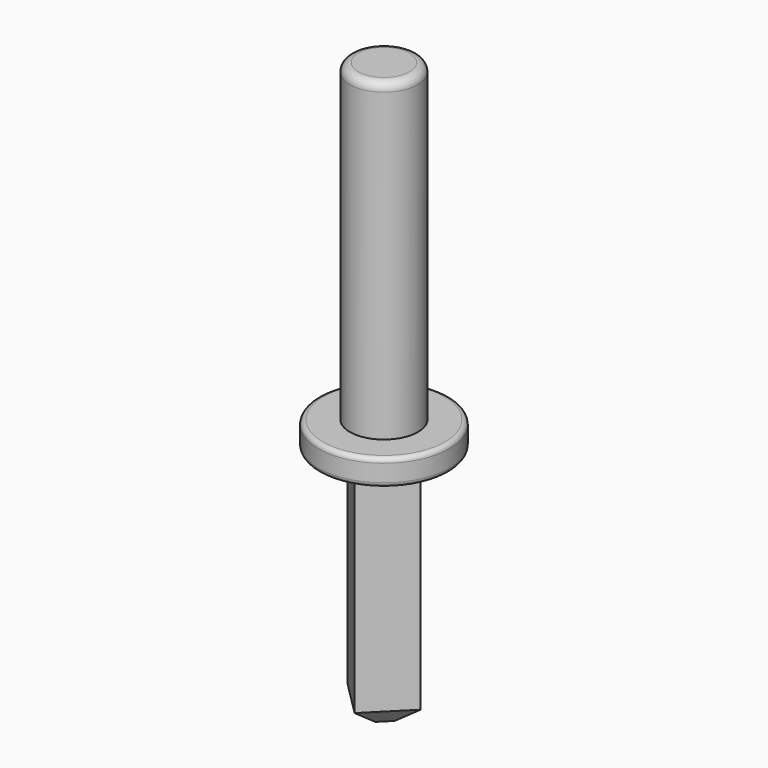
from build123d import *

# Parameters (mm, degrees)
PAD_DEPTH    = 4.5
CHAMFER_SIZE = 0.35


with BuildPart() as part:
    # Sketch → Revolution (revolve)
    with BuildSketch(Plane(origin=(0, 0, 0), x_dir=(-1, 0, 0), z_dir=(0, 1, 0))):
        with BuildLine():
            Line((0, 0), (1.163333, 0))
            ThreePointArc((1.163333, 0), (1.224616, 0.025384), (1.25, 0.086667))
            Line((1.25, 0.086667), (1.25, 0.413333))
            ThreePointArc((1.25, 0.413333), (1.224616, 0.474616), (1.163333, 0.5))
            Line((1.163333, 0.5), (0.65, 0.5))
            Line((0.65, 0.5), (0.65, 6.3375))
            ThreePointArc((0.65, 6.3375), (0.602405, 6.452405), (0.4875, 6.5))
            Line((0.4875, 6.5), (0, 6.5))
            Line((0, 6.5), (0, 0))
        make_face()
    revolve(axis=Axis((0, 0, 0), (0, 0, 1)))

    # Sketch001 → Pad (new body)
    with BuildSketch(Plane.XY):
        Polygon((-0.7, 0), (0, 0.7), (0.7, 0), (0, -0.7), align=None)
    extrude(amount=-PAD_DEPTH)

    # Chamfer
    chamfer_edges = [part.edges().sort_by_distance(p)[0] for p in [
        (0.35, -0.35, -4.5),
        (-0.35, -0.35, -4.5),
        (-0.35, 0.35, -4.5),
        (0.35, 0.35, -4.5),
    ]]
    chamfer(chamfer_edges, length=CHAMFER_SIZE)


solid = part.part
